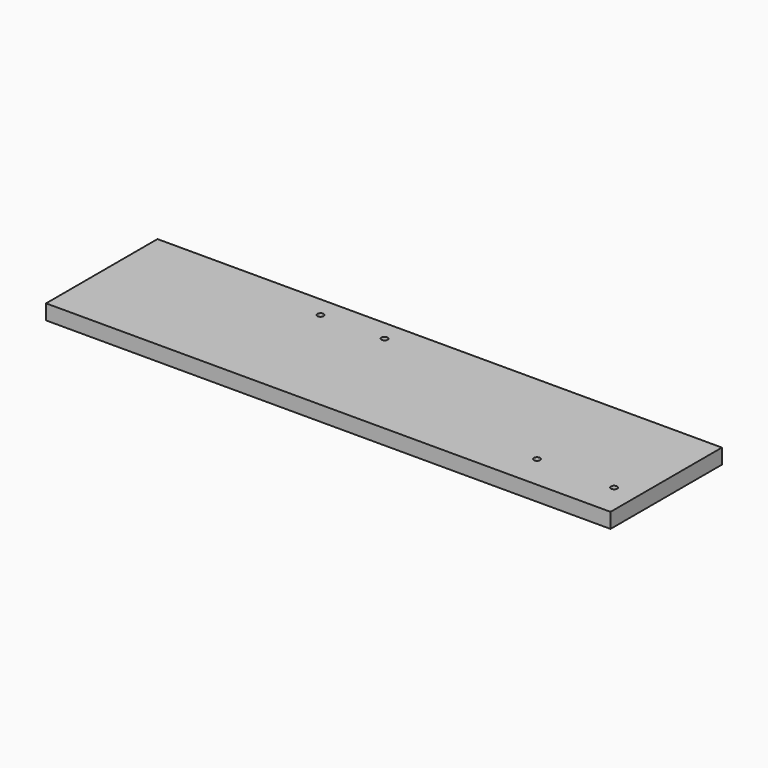
from build123d import *

# Parameters (mm, degrees)
F0_W           = 600
F0_H           = 148
F1_DEPTH       = 16
F5_D           = 6.6
F5_CBORE_D     = 11.25
F5_CBORE_DEPTH = 6


with BuildPart() as f1:
    # F0 (on Top) → F1 (new body)
    with BuildSketch(Plane.XY):
        Rectangle(F0_W, F0_H)
    extrude(amount=F1_DEPTH)

    # F5 (through all)
    with Locations(Plane(origin=(0, 0, 0), x_dir=(1, 0, 0), z_dir=(0, 0, -1))):
        with Locations((-109, -52), (-41, -52), (193, 38), (275, 38)):
            CounterBoreHole(F5_D / 2, F5_CBORE_D / 2, F5_CBORE_DEPTH)


solid = f1.part
